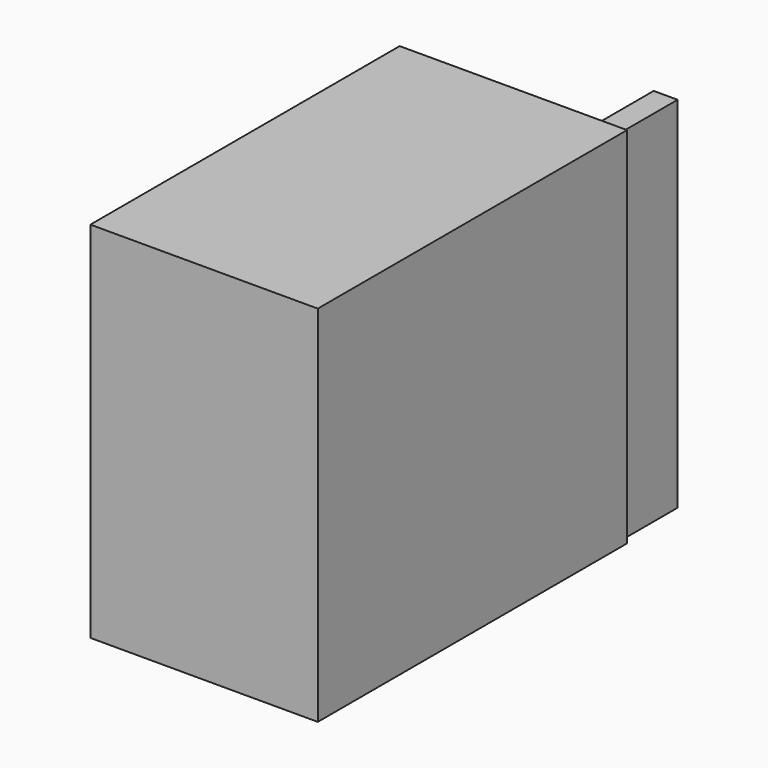
from build123d import *

# Parameters (mm, degrees)
SKETCH_W        = 500
SKETCH_H        = 800
PAD_DEPTH       = 850
SKETCH001_W     = 372.739898
SKETCH001_H     = 785.491455
SKETCH001_W_2   = 349.575272
SKETCH001_H_2   = 785.491421
POCKET_DEPTH    = 5
SKETCH002_W     = 52.646911
SKETCH002_H     = 789.7032
PAD001_DEPTH    = 150
SKETCH003_W     = 357.712269
SKETCH003_H     = 667.311138
POCKET001_DEPTH = 5
SKETCH004_W     = 152.212128
SKETCH004_H     = 235.528305
SKETCH004_W_2   = 136.189866
SKETCH004_H_2   = 233.926148
SKETCH004_W_3   = 157.018867
SKETCH004_H_3   = 233.926025
SKETCH004_W_4   = 136.189834
SKETCH004_H_4   = 238.732727
PAD002_DEPTH    = 10
SKETCH005_R     = 54.982504
SKETCH005_R_2   = 53.191284
SKETCH005_R_3   = 57.822478
SKETCH005_R_4   = 55.41133
PAD003_DEPTH    = 10
SKETCH006_W     = 89.111725
SKETCH006_H     = 10.483764
SKETCH006_W_2   = 87.364411
SKETCH006_H_2   = 12.231064
SKETCH006_W_3   = 94.353591
SKETCH006_H_3   = 13.978333
SKETCH006_H_4   = 10.483765
SKETCH006_W_4   = 13.978317
SKETCH006_H_5   = 96.100876
SKETCH006_W_5   = 12.230988
SKETCH006_H_6   = 94.353622
SKETCH006_H_7   = 101.342773
SKETCH006_W_6   = 10.483643
SKETCH006_H_8   = 89.111755
PAD004_DEPTH    = 10


with BuildPart() as part:
    # Sketch → Pad (new body)
    with BuildSketch(Plane.XZ):
        with Locations((250, 400)):
            Rectangle(SKETCH_W, SKETCH_H)
    extrude(amount=PAD_DEPTH)

    # Sketch001 (on Face4 of Pad) → Pocket (cut)
    with BuildSketch(Plane(origin=(0, 0, 0), x_dir=(0, 0, -1), z_dir=(-1, 0, 0))):
        with Locations((-587.422287, 426.051728)):
            Rectangle(SKETCH001_W, SKETCH001_H)
        with Locations((-205.205925, 426.051727)):
            Rectangle(SKETCH001_W_2, SKETCH001_H_2)
    extrude(amount=-POCKET_DEPTH, mode=Mode.SUBTRACT)

    # Sketch002 (on Face4 of Pocket) → Pad001 (join)
    with BuildSketch(Plane(origin=(0, 0, 0), x_dir=(1, 0, 0), z_dir=(0, 1, 0))):
        with Locations((464.799377, -400.002709)):
            Rectangle(SKETCH002_W, SKETCH002_H)
    extrude(amount=PAD001_DEPTH)

    # Sketch003 (on Face4 of Pad001) → Pocket001 (cut)
    with BuildSketch(Plane(origin=(0, 0, 0), x_dir=(1, 0, 0), z_dir=(0, 1, 0))):
        with Locations((228.396917, -394.292307)):
            Rectangle(SKETCH003_W, SKETCH003_H)
    extrude(amount=-POCKET001_DEPTH, mode=Mode.SUBTRACT)

    # Sketch004 (on Face25 of Pocket001) → Pad002 (join)
    with BuildSketch(Plane(origin=(0, -5, 0), x_dir=(1, 0, 0), z_dir=(0, 1, 0))):
        with Locations((149.261093, -246.12873)):
            Rectangle(SKETCH004_W, SKETCH004_H)
        with Locations((319.097847, -248.532074)):
            Rectangle(SKETCH004_W_2, SKETCH004_H_2)
        with Locations((148.459987, -532.12738)):
            Rectangle(SKETCH004_W_3, SKETCH004_H_3)
        with Locations((317.495598, -531.326263)):
            Rectangle(SKETCH004_W_4, SKETCH004_H_4)
    extrude(amount=PAD002_DEPTH)

    # Sketch005 (on Face43 of Pad002) → Pad003 (join)
    with BuildSketch(Plane(origin=(0, 5, 0), x_dir=(1, 0, 0), z_dir=(0, 1, 0))):
        with Locations((152.458954, -245.138535)):
            Circle(SKETCH005_R)
        with Locations((320.337128, -246.187805)):
            Circle(SKETCH005_R_2)
        with Locations((151.409729, -531.580627)):
            Circle(SKETCH005_R_3)
        with Locations((318.238647, -533.679138)):
            Circle(SKETCH005_R_4)
    extrude(amount=PAD003_DEPTH)

    # Sketch006 (on Face51 of Pad003) → Pad004 (join)
    with BuildSketch(Plane(origin=(0, 15, 0), x_dir=(1, 0, 0), z_dir=(0, 1, 0))):
        with Locations((152.860336, -247.169525)):
            Rectangle(SKETCH006_W, SKETCH006_H)
        with Locations((321.473679, -249.790474)):
            Rectangle(SKETCH006_W_2, SKETCH006_H_2)
        with Locations((157.228538, -531.977569)):
            Rectangle(SKETCH006_W_3, SKETCH006_H_3)
        with Locations((318.852737, -533.724853)):
            Rectangle(SKETCH006_W, SKETCH006_H_4)
        with Locations((158.975837, -244.548622)):
            Rectangle(SKETCH006_W_4, SKETCH006_H_5)
        with Locations((322.347336, -247.169533)):
            Rectangle(SKETCH006_W_5, SKETCH006_H_6)
        with Locations((157.228538, -533.724853)):
            Rectangle(SKETCH006_W_4, SKETCH006_H_7)
        with Locations((319.72638, -536.345795)):
            Rectangle(SKETCH006_W_6, SKETCH006_H_8)
    extrude(amount=PAD004_DEPTH)


solid = part.part
